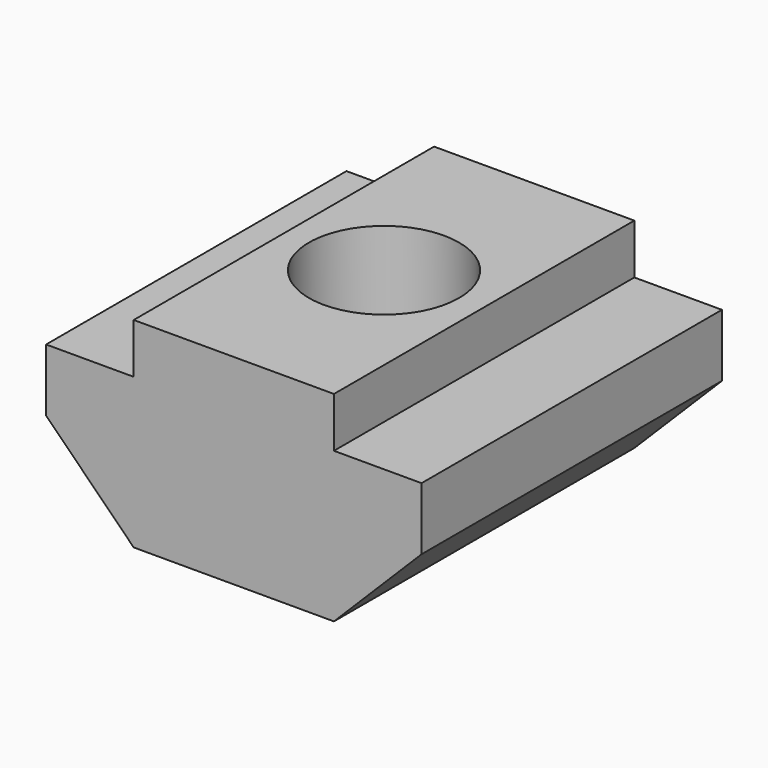
from build123d import *

# Parameters (mm, degrees)
F1_DEPTH = 15
F2_R     = 3
F3_DEPTH = 8.001


with BuildPart() as f1:
    # F0 (on Front) → F1 (new body)
    with BuildSketch(Plane.XZ):
        Polygon((-4, 0), (0, 0), (4, 0), (7.5, 3.5), (7.5, 6), (4, 6), (4, 8), (0, 8), (-4, 8), (-4, 6), (-7.5, 6), (-7.5, 3.5), align=None)
    extrude(amount=F1_DEPTH)

    # F2 (on face) → F3 (cut, through all)
    with BuildSketch(Plane.XY.offset(8)):
        with Locations((0, -7.5)):
            Circle(F2_R)
    extrude(amount=-F3_DEPTH, mode=Mode.SUBTRACT)


solid = f1.part
